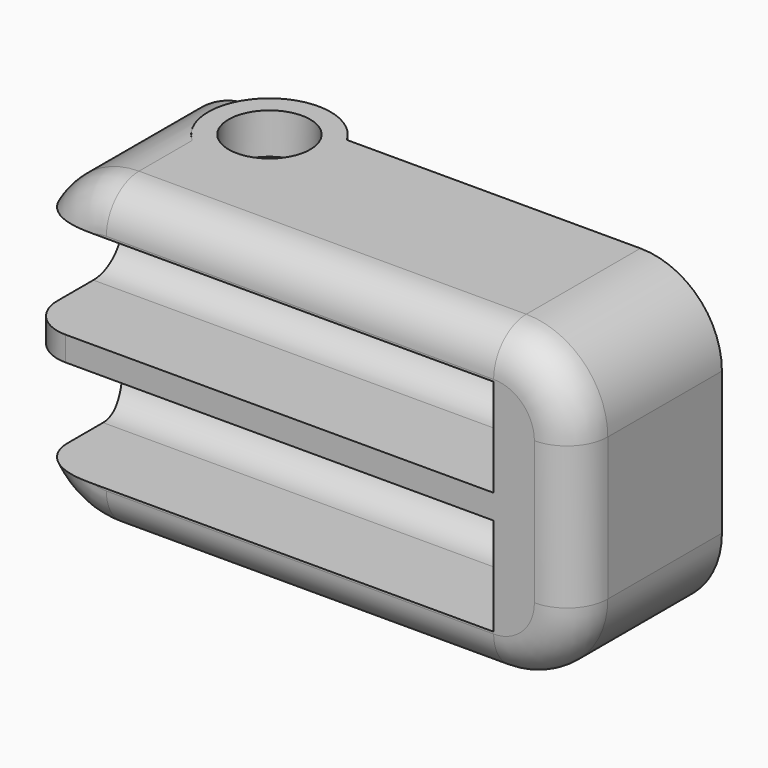
from build123d import *

# Parameters (mm, degrees)
CYLINDER002_R          = 2
CYLINDER002_DEPTH      = 2
CYLINDER_R             = 1.05
CYLINDER_DEPTH         = 20
CYLINDER_ROLL_ANGLE    = 90
RECTANGLE004_W         = 26
RECTANGLE004_H         = 4.8
EXTRUDE005_DEPTH       = 8
RECTANGLE002_W         = 26
RECTANGLE002_H         = 1
EXTRUDE004_DEPTH       = 20
RECTANGLE005_W         = 26
RECTANGLE005_H         = 4.8
EXTRUDE008_DEPTH       = 8
RECTANGLE001_W         = 26
RECTANGLE001_H         = 1
EXTRUDE002_DEPTH       = 20
RECTANGLE_W            = 27
RECTANGLE_H            = 15
EXTRUDE_DEPTH          = 9
FILLET_R               = 4
FILLET001_R            = 1.8
RECTANGLE008_W         = 26
RECTANGLE008_H         = 4.8
EXTRUDE011_DEPTH       = 8
RECTANGLE007_W         = 26
RECTANGLE007_H         = 1
EXTRUDE010_DEPTH       = 20
RECTANGLE009_W         = 26
RECTANGLE009_H         = 4.8
EXTRUDE012_DEPTH       = 8
RECTANGLE006_W         = 26
RECTANGLE006_H         = 1
EXTRUDE009_DEPTH       = 20
CYLINDER001_R          = 3
CYLINDER001_DEPTH      = 15
CYLINDER001_ROLL_ANGLE = 90
CUT002_ROLL_ANGLE      = 90
FILLET002_R            = 2


with BuildPart() as cylinder002:
    # Cylinder002 → Cylinder002 (new body)
    with BuildSketch(Plane(origin=(-14, -1.5, 18), x_dir=(1, 0, 0), z_dir=(0, 0, 1))):
        Circle(CYLINDER002_R)
    extrude(amount=CYLINDER002_DEPTH)


with BuildPart() as cylinder:
    # Cylinder → Cylinder (new body)
    with BuildSketch(Plane.XY):
        Circle(CYLINDER_R)
    extrude(amount=CYLINDER_DEPTH)


with BuildPart() as cylinder_1:
    # Cylinder roll: moved
    add(cylinder.part.rotate(Axis((0, 0, 0), (1, 0, 0)), CYLINDER_ROLL_ANGLE))


with BuildPart() as cylinder_2:
    # Cylinder placement: moved
    add(cylinder_1.part.moved(Location((-14, 21, 1.5))))


with BuildPart() as extrude005:
    # Rectangle004 → Extrude005 (new body)
    with BuildSketch(Plane(origin=(-23, 13.1, 0), x_dir=(1, 0, 0), z_dir=(0, 0, 1))):
        with Locations((13, 2.4)):
            Rectangle(RECTANGLE004_W, RECTANGLE004_H)
    extrude(amount=-EXTRUDE005_DEPTH)


with BuildPart() as extrude005_1:
    # Extrude005 placement: moved
    add(extrude005.part.moved(Location((0, 0, 11))))


with BuildPart() as extrude004:
    # Rectangle002 → Extrude004 (new body)
    with BuildSketch(Plane(origin=(-23, 10, 0), x_dir=(1, 0, 0), z_dir=(0, 0, 1))):
        with Locations((13, -0.5)):
            Rectangle(RECTANGLE002_W, RECTANGLE002_H)
    extrude(amount=EXTRUDE004_DEPTH)


with BuildPart() as extrude004_1:
    # Extrude004 placement: moved
    add(extrude004.part.moved(Location((0, 0, -4))))


with BuildPart() as extrude008:
    # Rectangle005 → Extrude008 (new body)
    with BuildSketch(Plane(origin=(-23, 11.9, 0), x_dir=(1, 0, 0), z_dir=(0, 0, 1))):
        with Locations((13, -2.4)):
            Rectangle(RECTANGLE005_W, RECTANGLE005_H)
    extrude(amount=EXTRUDE008_DEPTH)


with BuildPart() as extrude008_1:
    # Extrude008 placement: moved
    add(extrude008.part.moved(Location((0, 0, 3))))


with BuildPart() as fusion:
    # Rectangle001 → Extrude002 (new body)
    with BuildSketch(Plane(origin=(-23, 16, 0), x_dir=(1, 0, 0), z_dir=(0, 0, 1))):
        with Locations((13, 0.5)):
            Rectangle(RECTANGLE001_W, RECTANGLE001_H)
    extrude(amount=-EXTRUDE002_DEPTH)


with BuildPart() as fusion_1:
    # Extrude002 placement: moved
    add(fusion.part.moved(Location((0, -1, 10))))

    # Fusion: union Extrude005, Extrude004, Extrude008
    add(extrude005_1.part)
    add(extrude004_1.part)
    add(extrude008_1.part)


with BuildPart() as fillet001:
    # Rectangle → Extrude (new body)
    with BuildSketch(Plane(origin=(-20, 20, 0), x_dir=(1, 0, 0), z_dir=(0, 0, 1))):
        with Locations((13.5, -7.5)):
            Rectangle(RECTANGLE_W, RECTANGLE_H)
    extrude(amount=EXTRUDE_DEPTH)

    # Fillet
    fillet_edges = [fillet001.edges().sort_by_distance(p)[0] for p in [
        (-20, 20, 4.5),
        (7, 20, 4.5),
        (7, 5, 4.5),
        (-20, 5, 4.5),
    ]]
    fillet(fillet_edges, radius=FILLET_R)

    # Cut: cut Fusion
    add(fusion_1.part, mode=Mode.SUBTRACT)

    # Fillet001
    fillet001_edges = [fillet001.edges().sort_by_distance(p)[0] for p in [
        (-8.259972, 17.9, 3),
        (-8.259972, 7.1, 3),
        (-8.5, 11.9, 3),
        (-8.5, 13.1, 3),
    ]]
    fillet(fillet001_edges, radius=FILLET001_R)


with BuildPart() as extrude011:
    # Rectangle008 → Extrude011 (new body)
    with BuildSketch(Plane(origin=(-23, 13.1, 0), x_dir=(1, 0, 0), z_dir=(0, 0, 1))):
        with Locations((13, 2.4)):
            Rectangle(RECTANGLE008_W, RECTANGLE008_H)
    extrude(amount=-EXTRUDE011_DEPTH)


with BuildPart() as extrude011_1:
    # Extrude011 placement: moved
    add(extrude011.part.moved(Location((0, 0, 11))))


with BuildPart() as extrude010:
    # Rectangle007 → Extrude010 (new body)
    with BuildSketch(Plane(origin=(-23, 10, 0), x_dir=(1, 0, 0), z_dir=(0, 0, 1))):
        with Locations((13, -0.5)):
            Rectangle(RECTANGLE007_W, RECTANGLE007_H)
    extrude(amount=EXTRUDE010_DEPTH)


with BuildPart() as extrude010_1:
    # Extrude010 placement: moved
    add(extrude010.part.moved(Location((0, 0, -4))))


with BuildPart() as extrude012:
    # Rectangle009 → Extrude012 (new body)
    with BuildSketch(Plane(origin=(-23, 11.9, 0), x_dir=(1, 0, 0), z_dir=(0, 0, 1))):
        with Locations((13, -2.4)):
            Rectangle(RECTANGLE009_W, RECTANGLE009_H)
    extrude(amount=EXTRUDE012_DEPTH)


with BuildPart() as extrude012_1:
    # Extrude012 placement: moved
    add(extrude012.part.moved(Location((0, 0, 3))))


with BuildPart() as fusion001:
    # Rectangle006 → Extrude009 (new body)
    with BuildSketch(Plane(origin=(-23, 16, 0), x_dir=(1, 0, 0), z_dir=(0, 0, 1))):
        with Locations((13, 0.5)):
            Rectangle(RECTANGLE006_W, RECTANGLE006_H)
    extrude(amount=-EXTRUDE009_DEPTH)


with BuildPart() as fusion001_1:
    # Extrude009 placement: moved
    add(fusion001.part.moved(Location((0, -1, 10))))

    # Fusion001: union Extrude011, Extrude010, Extrude012
    add(extrude011_1.part)
    add(extrude010_1.part)
    add(extrude012_1.part)


with BuildPart() as fillet002:
    # Cylinder001 → Cylinder001 (new body)
    with BuildSketch(Plane.XY):
        Circle(CYLINDER001_R)
    extrude(amount=CYLINDER001_DEPTH)


with BuildPart() as fillet002_1:
    # Cylinder001 roll: moved
    add(fillet002.part.rotate(Axis((0, 0, 0), (1, 0, 0)), CYLINDER001_ROLL_ANGLE))


with BuildPart() as fillet002_2:
    # Cylinder001 placement: moved
    add(fillet002_1.part.moved(Location((-14, 20, 1.5))))

    # Cut001: cut Fusion001
    add(fusion001_1.part, mode=Mode.SUBTRACT)

    # Fusion002: union Fillet001
    add(fillet001.part)

    # Cut002: cut Cylinder
    add(cylinder_2.part, mode=Mode.SUBTRACT)


with BuildPart() as fillet002_3:
    # Cut002 roll: moved
    add(fillet002_2.part.rotate(Axis((0, 0, 0), (1, 0, 0)), CUT002_ROLL_ANGLE))


with BuildPart() as fillet002_4:
    # Cut002 placement: moved
    add(fillet002_3.part)

    # Cut003: cut Cylinder002
    add(cylinder002.part, mode=Mode.SUBTRACT)

    # Fillet002
    fillet002_edges = [fillet002_4.edges().sort_by_distance(p)[0] for p in [
        (-6.5, -9, 20),
        (5.828427, -9, 18.828427),
        (7, -9, 12.5),
        (5.828427, -9, 6.171573),
        (-6.5, -9, 5),
        (-18.04939, -9, 5.564887),
        (-20, -9, 12.5),
        (-18.04939, -9, 19.435113),
    ]]
    fillet(fillet002_edges, radius=FILLET002_R)


solid = fillet002_4.part
